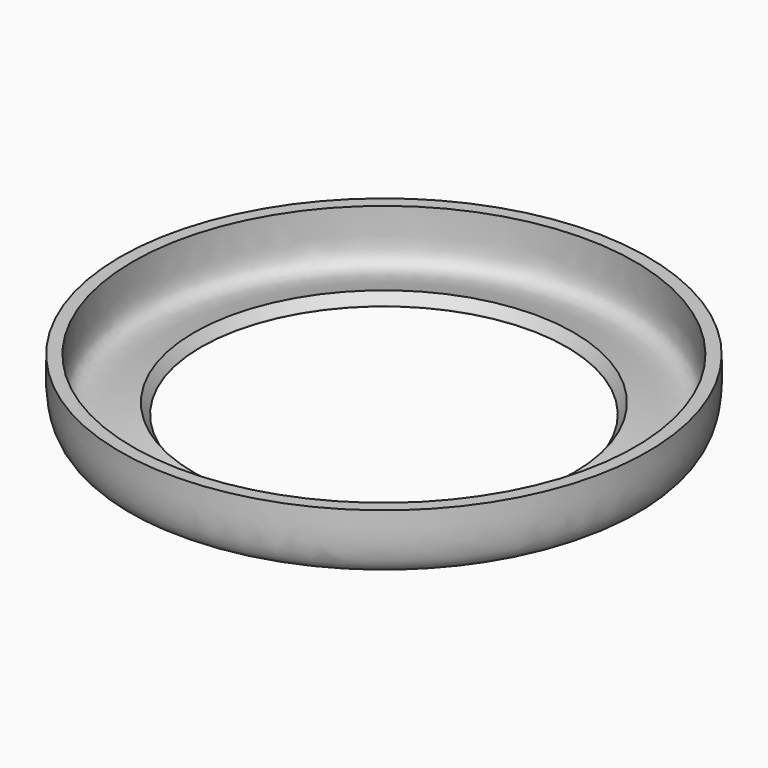
from build123d import *


with BuildPart() as f1:
    # F0 (on Front) → F1 (revolve)
    with BuildSketch(Plane.XZ):
        with BuildLine():
            add(Edge.make_bspline(
                [(-45.7291547225, -13.2440982021), (-51.1624130004, -14.4704903146), (-66.9427053756, -19.4814168787), (-66.1162982009, -5.6939229647), (-66.04, 0)],
                knots=[0, 0, 0, 0, 0.5193392415, 1, 1, 1, 1], degree=3))
            add(Edge.make_bspline(
                [(-45.7291547225, -13.2440982021), (-45.7582691746, -13.1969807905), (-45.7869637101, -13.1501334243), (-45.8152432856, -13.1035515177)],
                knots=[0, 0, 0, 0, 0.1094919115, 0.1094919115, 0.1094919115, 0.1094919115], degree=3))
            Line((-45.8152432856, -13.1035515177), (-47.5243476509, -10.6253375507))
            add(Edge.make_bspline(
                [(-47.5243476509, -10.6253375507), (-51.9931941539, -11.7705394011), (-64.4500940862, -16.1781076568), (-62.9412982009, -4.7251796279), (-62.865, 0)],
                knots=[0, 0, 0, 0, 0.5137471915, 1, 1, 1, 1], degree=3))
            Line((-62.865, 0), (-66.04, 0))
        make_face()
    revolve(axis=Axis((0, 0, -5.4671834223), (0, 0, -1)))


solid = f1.part
